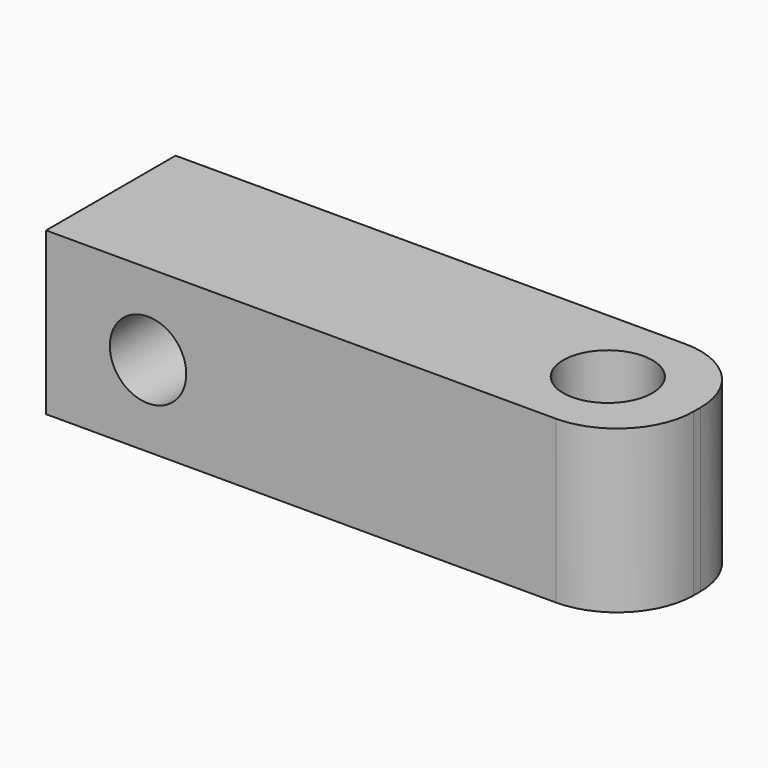
from build123d import *

# Parameters (mm, degrees)
F1_DEPTH = 6.35
F2_R     = 1.5
F3_DEPTH = 12.5


with BuildPart() as f1:
    # F0 (on Top) → F1 (new body)
    with BuildSketch(Plane.XY):
        with BuildLine():
            Line((8.258105, 2.981893), (-11.741895, 2.981893))
            Line((-11.741895, 2.981893), (-11.741895, -0.193107))
            Line((-11.741895, -0.193107), (6.008105, -0.193107))
            ThreePointArc((6.008105, -0.193107), (7.758105, 1.556893), (9.508105, -0.193107))
            Line((9.508105, -0.193107), (11.258105, -0.193107))
            Line((11.258105, -0.193107), (11.258105, -0.018107))
            ThreePointArc((11.258105, -0.018107), (10.379426, 2.103213), (8.258105, 2.981893))
        make_face()
        with BuildLine():
            Line((6.008105, -0.193107), (-11.741895, -0.193107))
            Line((-11.741895, -0.193107), (-11.741895, -3.368107))
            Line((-11.741895, -3.368107), (8.258105, -3.368107))
            ThreePointArc((8.258105, -3.368107), (10.379426, -2.489427), (11.258105, -0.368107))
            Line((11.258105, -0.368107), (11.258105, -0.193107))
            Line((11.258105, -0.193107), (9.508105, -0.193107))
            ThreePointArc((9.508105, -0.193107), (7.758105, -1.943107), (6.008105, -0.193107))
        make_face()
    extrude(amount=F1_DEPTH)

    # F2 (on Front) → F3 (cut, symmetric)
    with BuildSketch(Plane.XZ):
        with Locations((-7.741895, 3.175)):
            Circle(F2_R)
    extrude(amount=F3_DEPTH, both=True, mode=Mode.SUBTRACT)


solid = f1.part
